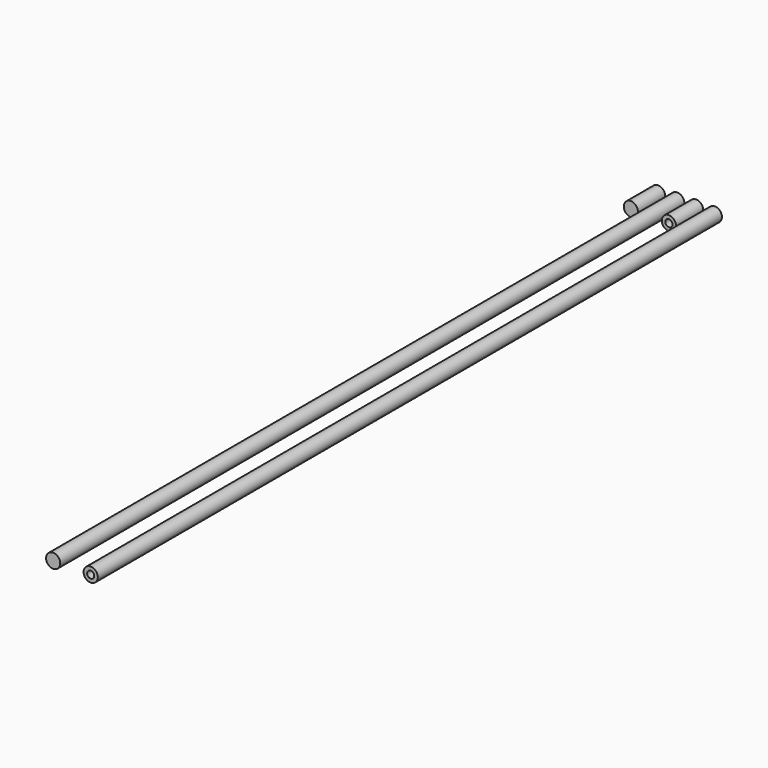
from build123d import *

# Parameters (mm, degrees)
F0_R     = 0.5
F1_DEPTH = 2.4
F2_DEPTH = 55
F0_R_2   = 0.25
F3_DEPTH = 2.4
F4_DEPTH = 55


with BuildPart() as f1:
    # F0 (on Front) → F1 (new body)
    with BuildSketch(Plane.XZ):
        with Locations((-1.354773, 0)):
            Circle(F0_R)
    extrude(amount=F1_DEPTH)


with BuildPart() as f2:
    # F0 (on Front) → F2 (new body)
    with BuildSketch(Plane.XZ):
        Circle(F0_R)
    extrude(amount=F2_DEPTH)


with BuildPart() as f3:
    # F0 (on Front) → F3 (new body)
    with BuildSketch(Plane.XZ):
        with Locations((1.329211, 0)):
            Circle(F0_R)
        with Locations((1.329211, 0)):
            Circle(F0_R_2, mode=Mode.SUBTRACT)
    extrude(amount=F3_DEPTH)


with BuildPart() as f4:
    # F0 (on Front) → F4 (new body)
    with BuildSketch(Plane.XZ):
        with Locations((2.645641, 0)):
            Circle(F0_R)
        with Locations((2.645641, 0)):
            Circle(F0_R_2, mode=Mode.SUBTRACT)
    extrude(amount=F4_DEPTH)


solid = Compound([f1.part, f2.part, f3.part, f4.part])
